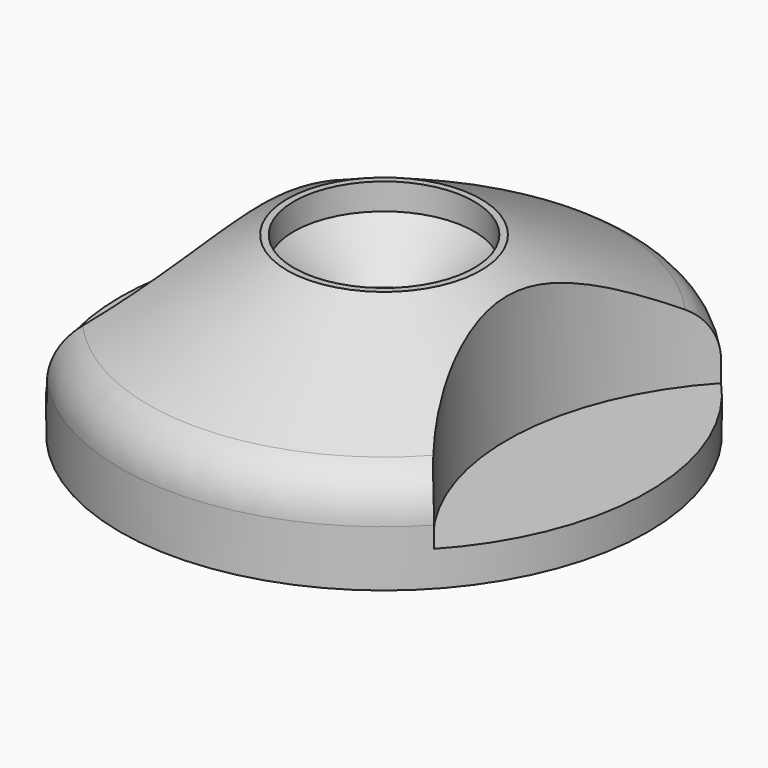
from build123d import *

# Parameters (mm, degrees)
F2_R     = 15
F3_DEPTH = 8


with BuildPart() as f1:
    # F0 (on Front) → F1 (revolve)
    with BuildSketch(Plane.XZ):
        with BuildLine():
            Line((-2.625, 0), (-2.625, 5))
            Line((-2.625, 5), (-5.125, 7.5))
            Line((-5.125, 7.5), (-5.125, 9))
            Line((-5.125, 9), (-5.505, 9))
            Line((-5.505, 9), (-13.402239, 4.843558))
            ThreePointArc((-13.402239, 4.843558), (-14.57324, 3.739333), (-15.005, 2.188804))
            Line((-15.005, 2.188804), (-15.005, -1))
            ThreePointArc((-15.005, -1), (-10.029938, -0.250622), (-5.005, 0))
            Line((-5.005, 0), (-2.625, 0))
        make_face()
    revolve(axis=Axis((0, 0, 10.827172), (0, 0, 1)))

    # F2 (on face) → F3 (cut)
    with BuildSketch(Plane.XY.offset(9)):
        with Locations((-22, 0)):
            Circle(F2_R)
        with Locations((22, 0)):
            Circle(F2_R)
    extrude(amount=-F3_DEPTH, mode=Mode.SUBTRACT)


solid = f1.part
